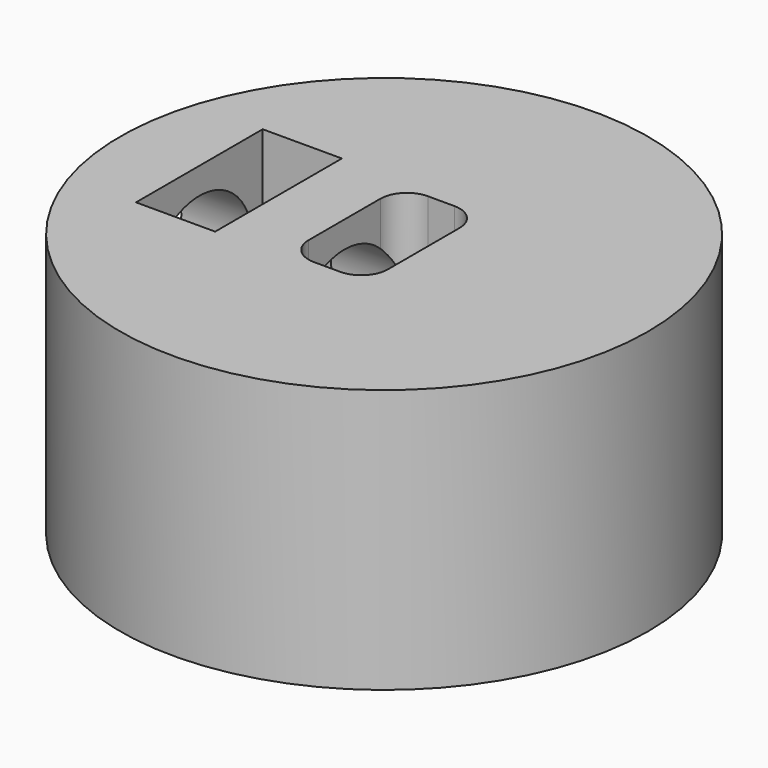
from build123d import *

# Parameters (mm, degrees)
CYLINDER001_R     = 2.5
CYLINDER001_DEPTH = 15
BOX_W             = 3
BOX_H             = 5.4
BOX_DEPTH         = 15
FILLET_R          = 1
BOX001_W          = 3
BOX001_H          = 6
BOX001_DEPTH      = 15
CYLINDER_R        = 10
CYLINDER_DEPTH    = 10


with BuildPart() as cilindro001:
    # Cylinder001 → Cylinder001 (new body)
    with BuildSketch(Plane(origin=(-15, 0, 6.5), x_dir=(0, 0, -1), z_dir=(1, 0, 0))):
        Circle(CYLINDER001_R)
    extrude(amount=CYLINDER001_DEPTH)


with BuildPart() as fillet_body:
    # Box → Box (new body)
    with BuildSketch(Plane(origin=(-1.5, -2.7, 0.6), x_dir=(1, 0, 0), z_dir=(0, 0, 1))):
        with Locations((1.5, 2.7)):
            Rectangle(BOX_W, BOX_H)
    extrude(amount=BOX_DEPTH)

    # Fillet
    fillet_edges = [fillet_body.edges().sort_by_distance(p)[0] for p in [
        (-1.5, -2.7, 8.1),
        (-1.5, 2.7, 8.1),
        (1.5, -2.7, 8.1),
        (1.5, 2.7, 8.1),
        (0, -2.7, 0.6),
        (0, -2.7, 15.6),
        (0, 2.7, 0.6),
        (0, 2.7, 15.6),
    ]]
    fillet(fillet_edges, radius=FILLET_R)


with BuildPart() as cubo001:
    # Box001 → Box001 (new body)
    with BuildSketch(Plane(origin=(-7, -3, 2.5), x_dir=(1, 0, 0), z_dir=(0, 0, 1))):
        with Locations((1.5, 3)):
            Rectangle(BOX001_W, BOX001_H)
    extrude(amount=BOX001_DEPTH)


with BuildPart() as cut002:
    # Cylinder → Cylinder (new body)
    with BuildSketch(Plane.XY):
        Circle(CYLINDER_R)
    extrude(amount=CYLINDER_DEPTH)

    # Cut: cut Cubo001
    add(cubo001.part, mode=Mode.SUBTRACT)

    # Cut001: cut Fillet body
    add(fillet_body.part, mode=Mode.SUBTRACT)

    # Cut002: cut Cilindro001
    add(cilindro001.part, mode=Mode.SUBTRACT)


solid = cut002.part
